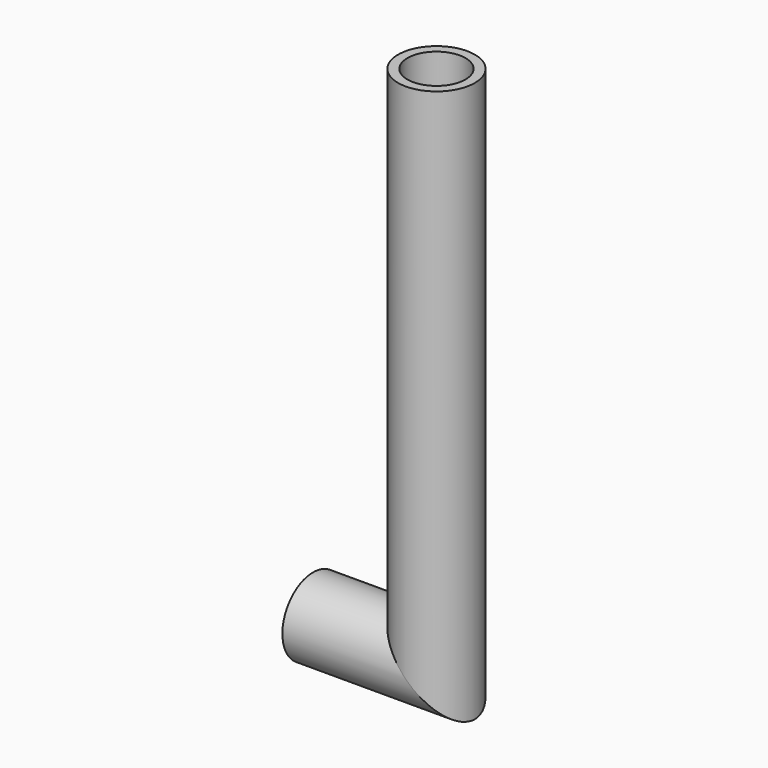
from build123d import *

# Parameters (mm, degrees)
F0_R = 4.6260523319
F3_R = 3.4981692949


with BuildPart() as f2:
    # F2: sweep along a path in F1
    with BuildLine(Plane.XZ) as f2_path:
        Line((-14.8718524724, -9.2063853517), (0, -9.2063853517))
        Line((0, -9.2063853517), (0, 0))
        Line((0, 0), (0, 53.6803081632))
    # F0 (on Top) → F2 (sweep)
    with BuildSketch(Plane.XY):
        Circle(F0_R)
    sweep(path=f2_path.line, transition=Transition.RIGHT)

    # F4: sweep along a path in F1
    with BuildLine(Plane.XZ) as f4_path:
        Line((0, 53.6803081632), (0, 0))
        Line((0, 0), (0, -9.2063853517))
        Line((0, -9.2063853517), (-14.8718524724, -9.2063853517))
    # F3 (on face) → F4 (sweep, cut)
    with BuildSketch(Plane.XY.offset(53.6803081632)):
        Circle(F3_R)
    sweep(path=f4_path.line, transition=Transition.RIGHT, mode=Mode.SUBTRACT)


solid = f2.part
